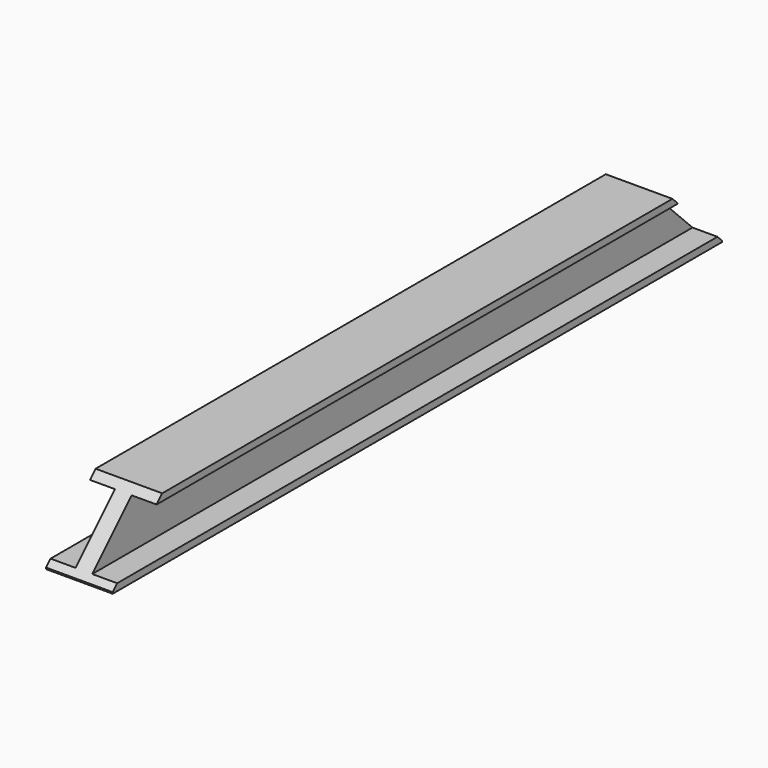
from build123d import *

# Parameters (mm, degrees)
F1_DEPTH = 1600
F2_SIZE  = 130


with BuildPart() as f1:
    # F0 (on Front) → F1 (new body)
    with BuildSketch(Plane.XZ):
        Polygon((-70, -66.5), (70, -66.5), (70, -51.752616), (17.639413, -51.752616), (17.639413, 51.752616), (70, 51.752616), (70, 66.5), (-70, 66.5), (-70, 51.752616), (-17.639413, 51.752616), (-17.639413, -51.752616), (-70, -51.752616), align=None)
    extrude(amount=F1_DEPTH)

    # F2
    f2_edges = [f1.edges().sort_by_distance(p)[0] for p in [
        (0, -1600, 66.5),
        (0, 0, 66.5),
    ]]
    chamfer(f2_edges, length=F2_SIZE)


solid = f1.part
